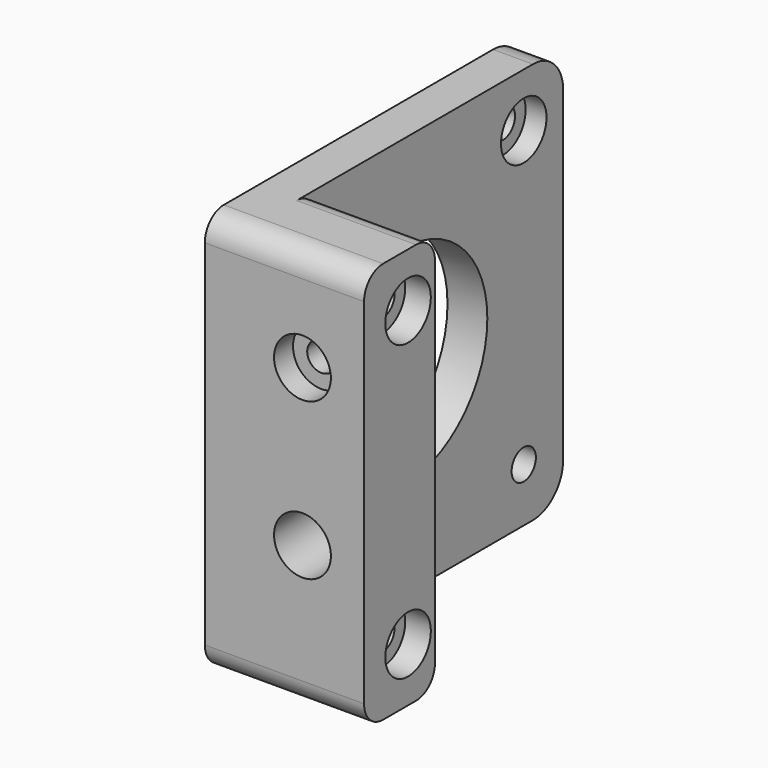
from build123d import *

# Parameters (mm, degrees)
F0_W      = 42
F0_H      = 42.35
F1_DEPTH  = 4.2
F2_R      = 11
F2_R_2    = 1.6
F3_DEPTH  = 4.201
F4_W      = 9.35
F4_H      = 42.35
F5_DEPTH  = 12.6
F6_R      = 1.6
F7_DEPTH  = 16.801
F8_R      = 3
F9_DEPTH  = 2.7
F10_R     = 3
F11_DEPTH = 2.2
F12_R     = 4
F13_R     = 2.5
F14_R     = 1.5
F14_R_2   = 3
F15_DEPTH = 42.001
F16_R     = 3
F17_DEPTH = 2.5


with BuildPart() as f1:
    # F0 (on Right) → F1 (new body)
    with BuildSketch(Plane.YZ):
        Rectangle(F0_W, F0_H)
    extrude(amount=F1_DEPTH)

    # F2 (on face) → F3 (cut, through all)
    with BuildSketch(Plane.YZ.offset(4.2)):
        Circle(F2_R)
        with Locations((15.8, 15.5)):
            Circle(F2_R_2)
        with Locations((15.8, -15.5)):
            Circle(F2_R_2)
    extrude(amount=-F3_DEPTH, mode=Mode.SUBTRACT)

    # F4 (on face) → F5 (join)
    with BuildSketch(Plane.YZ.offset(4.2)):
        with Locations((-16.325, 0)):
            Rectangle(F4_W, F4_H)
    extrude(amount=F5_DEPTH)

    # F6 (on face) → F7 (cut, through all)
    with BuildSketch(Plane.YZ.offset(16.8)):
        with Locations((-15.2, 15.5)):
            Circle(F6_R)
        with Locations((-15.2, -15.5)):
            Circle(F6_R)
    extrude(amount=-F7_DEPTH, mode=Mode.SUBTRACT)

    # F8 (on face) → F9 (cut)
    with BuildSketch(Plane.YZ.offset(16.8)):
        with Locations((-15.2, -15.5)):
            Circle(F8_R)
        with Locations((-15.2, 15.5)):
            Circle(F8_R)
    extrude(amount=-F9_DEPTH, mode=Mode.SUBTRACT)

    # F10 (on face) → F11 (cut)
    with BuildSketch(Plane.YZ.offset(4.2)):
        with Locations((15.8, 15.5)):
            Circle(F10_R)
    extrude(amount=-F11_DEPTH, mode=Mode.SUBTRACT)

    # F12
    f12_edges = [f1.edges().sort_by_distance(p)[0] for p in [
        (2.1, 21, 21.175),
        (2.1, 21, -21.175),
    ]]
    fillet(f12_edges, radius=F12_R)

    # F13
    f13_edges = [f1.edges().sort_by_distance(p)[0] for p in [
        (10.5, -11.65, 21.175),
        (10.5, -11.65, -21.175),
        (8.4, -21, 21.175),
        (8.4, -21, -21.175),
    ]]
    fillet(f13_edges, radius=F13_R)

    # F14 (on face) → F15 (cut, through all)
    with BuildSketch(Plane.XZ.offset(21)):
        with Locations((10.3, 10.425)):
            Circle(F14_R)
        with Locations((10.3, -6.075)):
            Circle(F14_R_2)
    extrude(amount=-F15_DEPTH, mode=Mode.SUBTRACT)

    # F16 (on face) → F17 (cut)
    with BuildSketch(Plane.XZ.offset(21)):
        with Locations((10.3, 10.425)):
            Circle(F16_R)
    extrude(amount=-F17_DEPTH, mode=Mode.SUBTRACT)


solid = f1.part
